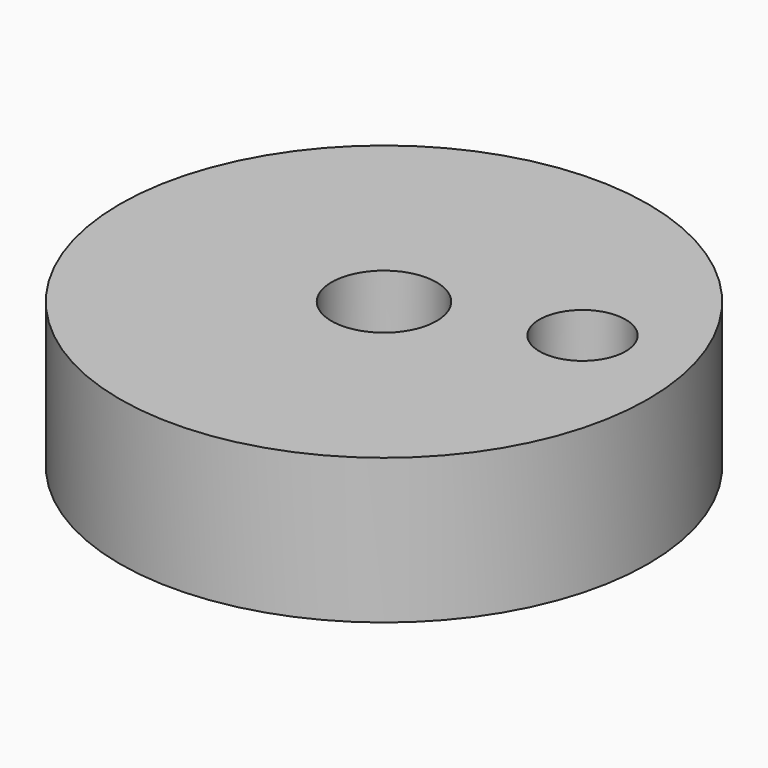
from build123d import *

# Parameters (mm, degrees)
F0_R     = 18.214854
F0_R_2   = 3.623365
F0_R_3   = 2.972051
F1_DEPTH = 10


with BuildPart() as f1:
    # F0 (on Top) → F1 (new body)
    with BuildSketch(Plane.XY):
        with Locations((-65.669261, -41.788045)):
            Circle(F0_R)
        with Locations((-65.669261, -41.788045)):
            Circle(F0_R_2, mode=Mode.SUBTRACT)
        with Locations((-54.861262, -38.185377)):
            Circle(F0_R_3, mode=Mode.SUBTRACT)
    extrude(amount=F1_DEPTH)


solid = f1.part
